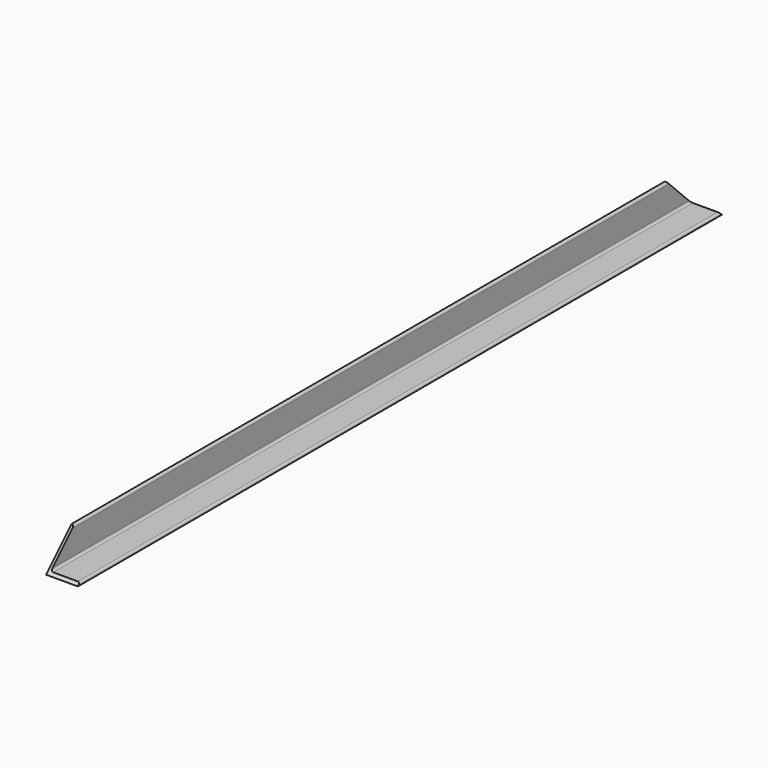
from build123d import *

# Parameters (mm, degrees)
F1_DEPTH = 965.2
F2_R     = 5.08
F4_DEPTH = 76.2


with BuildPart() as f1:
    # F0 (on Front) → F1 (new body, symmetric)
    with BuildSketch(Plane.XZ):
        Polygon((-38.1, -38.1), (38.1, -38.1), (38.1, -31.75), (-31.75, -31.75), (-31.75, 38.1), (-38.1, 38.1), align=None)
    extrude(amount=F1_DEPTH, both=True)

    # F2
    f2_edges = [f1.edges().sort_by_distance(p)[0] for p in [
        (-31.75, 0, 38.1),
        (-31.75, 0, -31.75),
        (38.1, 0, -31.75),
    ]]
    fillet(f2_edges, radius=F2_R)

    # F3 (on face) → F4 (cut)
    with BuildSketch(Plane(origin=(-38.1, 0, 0), x_dir=(0, -1, 0), z_dir=(-1, 0, 0))):
        Polygon((-965.2, 38.1), (-965.2, -38.1), (-889, 38.1), align=None)
        Polygon((889, 38.1), (965.2, -38.1), (965.2, 38.1), align=None)
    extrude(amount=-F4_DEPTH, mode=Mode.SUBTRACT)


solid = f1.part
